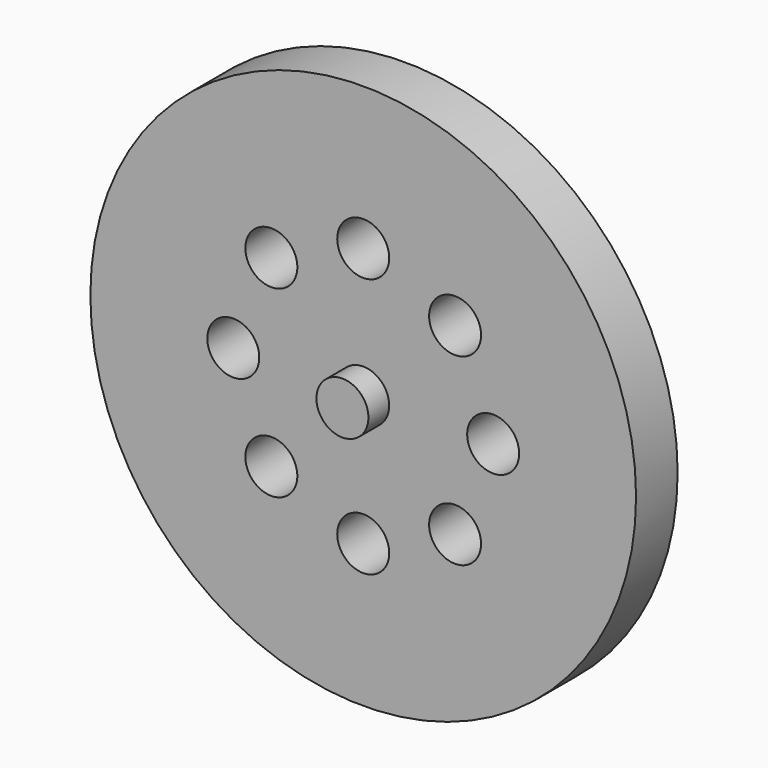
from build123d import *

# Parameters (mm, degrees)
F0_R     = 16.66875
F1_DEPTH = 3.175
F2_R     = 2.38125
F3_DEPTH = 6.35
F4_R     = 1.5875
F5_DEPTH = 25.4
F6_R     = 1.5875
F7_DEPTH = 1.5875
F8_R     = 1.5875
F9_DEPTH = 3.81


with BuildPart() as f1:
    # F0 (on Front) → F1 (new body)
    with BuildSketch(Plane.XZ):
        Circle(F0_R)
    extrude(amount=-F1_DEPTH)

    # F2 (on face) → F3 (join)
    with BuildSketch(Plane(origin=(0, 3.175, 0), x_dir=(-1, 0, 0), z_dir=(0, 1, 0))):
        Circle(F2_R)
    extrude(amount=F3_DEPTH)

    # F4 (on face) → F5 (cut)
    with BuildSketch(Plane(origin=(0, 9.525, 0), x_dir=(-1, 0, 0), z_dir=(0, 1, 0))):
        with Locations((7.9375, 0)):
            Circle(F4_R)
        with Locations((5.61266, 5.61266)):
            Circle(F4_R)
        with Locations((0, 7.9375)):
            Circle(F4_R)
        with Locations((-5.61266, 5.61266)):
            Circle(F4_R)
        with Locations((-7.9375, 0)):
            Circle(F4_R)
        with Locations((-5.61266, -5.61266)):
            Circle(F4_R)
        with Locations((0, -7.9375)):
            Circle(F4_R)
        with Locations((5.61266, -5.61266)):
            Circle(F4_R)
    extrude(amount=-F5_DEPTH, mode=Mode.SUBTRACT)

    # F6 (on face) → F7 (join)
    with BuildSketch(Plane.XZ):
        Circle(F6_R)
    extrude(amount=F7_DEPTH)

    # F8 (on face) → F9 (cut)
    with BuildSketch(Plane(origin=(0, 9.525, 0), x_dir=(-1, 0, 0), z_dir=(0, 1, 0))):
        Circle(F8_R)
    extrude(amount=-F9_DEPTH, mode=Mode.SUBTRACT)


solid = f1.part
